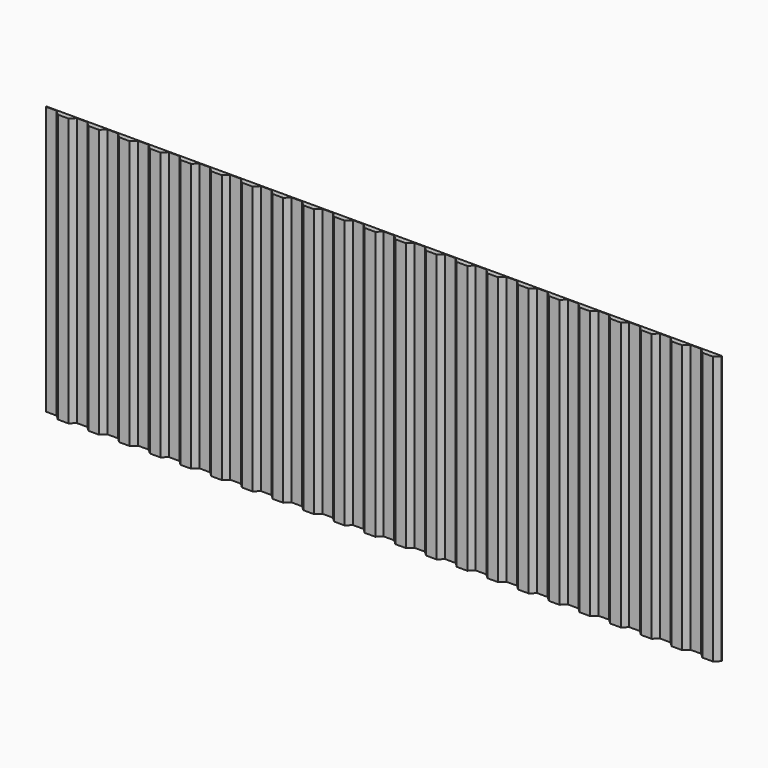
from build123d import *

# Parameters (mm, degrees)
F1_DEPTH = 16


with BuildPart() as f1:
    # F0 (on Top) → F1 (new body)
    with BuildSketch(Plane.XY):
        Polygon((0.414211, 0.041402), (-1.415181, 0.041402), (-1.411876, 0), (-0.781621, 0), (-0.497795, -0.270558), (0.132981, -0.270558), (0.417517, 0), align=None)
        Polygon((0.420945, 0.041402), (0.414211, 0.041402), (0.417517, 0), align=None)
        Polygon((2.243604, 0.041402), (0.420945, 0.041402), (0.417517, 0), (1.047772, 0), (1.331597, -0.270558), (1.962374, -0.270558), (2.246909, 0), align=None)
        Polygon((2.250337, 0.041402), (2.243604, 0.041402), (2.246909, 0), align=None)
        Polygon((4.072996, 0.041402), (2.250337, 0.041402), (2.246909, 0), (2.877164, 0), (3.160989, -0.270558), (3.791766, -0.270558), (4.076301, 0), align=None)
        Polygon((4.079729, 0.041402), (4.072996, 0.041402), (4.076301, 0), align=None)
        Polygon((5.902388, 0.041402), (4.079729, 0.041402), (4.076301, 0), (4.706556, 0), (4.990381, -0.270558), (5.621158, -0.270558), (5.905694, 0), align=None)
        Polygon((5.909122, 0.041402), (5.902388, 0.041402), (5.905694, 0), align=None)
        Polygon((7.73178, 0.041402), (5.909122, 0.041402), (5.905694, 0), (6.535948, 0), (6.819774, -0.270558), (7.450551, -0.270558), (7.735086, 0), align=None)
        Polygon((7.738514, 0.041402), (7.73178, 0.041402), (7.735086, 0), align=None)
        Polygon((9.561173, 0.041402), (7.738514, 0.041402), (7.735086, 0), (8.365341, 0), (8.649166, -0.270558), (9.279943, -0.270558), (9.564478, 0), align=None)
        Polygon((9.567906, 0.041402), (9.561173, 0.041402), (9.564478, 0), align=None)
        Polygon((11.390565, 0.041402), (9.567906, 0.041402), (9.564478, 0), (10.194733, 0), (10.478558, -0.270558), (11.109335, -0.270558), (11.39387, 0), align=None)
        Polygon((11.397298, 0.041402), (11.390565, 0.041402), (11.39387, 0), align=None)
        Polygon((13.219957, 0.041402), (11.397298, 0.041402), (11.39387, 0), (12.024125, 0), (12.307951, -0.270558), (12.938727, -0.270558), (13.223263, 0), align=None)
        Polygon((13.226691, 0.041402), (13.219957, 0.041402), (13.223263, 0), align=None)
        Polygon((15.04935, 0.041402), (13.226691, 0.041402), (13.223263, 0), (13.853518, 0), (14.137343, -0.270558), (14.76812, -0.270558), (15.052655, 0), align=None)
        Polygon((15.056083, 0.041402), (15.04935, 0.041402), (15.052655, 0), align=None)
        Polygon((16.878742, 0.041402), (15.056083, 0.041402), (15.052655, 0), (15.68291, 0), (15.966735, -0.270558), (16.597512, -0.270558), (16.882047, 0), align=None)
        Polygon((16.885475, 0.041402), (16.878742, 0.041402), (16.882047, 0), align=None)
        Polygon((18.708134, 0.041402), (16.885475, 0.041402), (16.882047, 0), (17.512302, 0), (17.796127, -0.270558), (18.426904, -0.270558), (18.711439, 0), align=None)
        Polygon((18.714868, 0.041402), (18.708134, 0.041402), (18.711439, 0), align=None)
        Polygon((20.537526, 0.041402), (18.714868, 0.041402), (18.711439, 0), (19.341694, 0), (19.62552, -0.270558), (20.256296, -0.270558), (20.540832, 0), align=None)
        Polygon((20.54426, 0.041402), (20.537526, 0.041402), (20.540832, 0), align=None)
        Polygon((22.366919, 0.041402), (20.54426, 0.041402), (20.540832, 0), (21.171087, 0), (21.454912, -0.270558), (22.085689, -0.270558), (22.370224, 0), align=None)
        Polygon((22.373652, 0.041402), (22.366919, 0.041402), (22.370224, 0), align=None)
        Polygon((24.196311, 0.041402), (22.373652, 0.041402), (22.370224, 0), (23.000479, 0), (23.284304, -0.270558), (23.915081, -0.270558), (24.199616, 0), align=None)
        Polygon((24.203044, 0.041402), (24.196311, 0.041402), (24.199616, 0), align=None)
        Polygon((26.025703, 0.041402), (24.203044, 0.041402), (24.199616, 0), (24.829871, 0), (25.113696, -0.270558), (25.744473, -0.270558), (26.029009, 0), align=None)
        Polygon((26.032437, 0.041402), (26.025703, 0.041402), (26.029009, 0), align=None)
        Polygon((27.855095, 0.041402), (26.032437, 0.041402), (26.029009, 0), (26.659264, 0), (26.943089, -0.270558), (27.573866, -0.270558), (27.858401, 0), align=None)
        Polygon((27.861829, 0.041402), (27.855095, 0.041402), (27.858401, 0), align=None)
        Polygon((29.684488, 0.041402), (27.861829, 0.041402), (27.858401, 0), (28.488656, 0), (28.772481, -0.270558), (29.403258, -0.270558), (29.687793, 0), align=None)
        Polygon((29.691221, 0.041402), (29.684488, 0.041402), (29.687793, 0), align=None)
        Polygon((31.51388, 0.041402), (29.691221, 0.041402), (29.687793, 0), (30.318048, 0), (30.601873, -0.270558), (31.23265, -0.270558), (31.517185, 0), align=None)
        Polygon((31.520614, 0.041402), (31.51388, 0.041402), (31.517185, 0), align=None)
        Polygon((33.3467, 0.041402), (31.520614, 0.041402), (31.517185, 0), (32.14744, 0), (32.431266, -0.270558), (33.062042, -0.270558), (33.346578, 0), (33.348323, 0.021078), align=None)
        Polygon((33.350006, 0.041402), (33.3467, 0.041402), (33.348323, 0.021078), align=None)
        Polygon((35.176093, 0.041402), (33.350006, 0.041402), (33.348323, 0.021078), (33.350006, 0), (33.980261, 0), (34.264086, -0.270558), (34.894863, -0.270558), (35.179398, 0), align=None)
        Polygon((35.182826, 0.041402), (35.176093, 0.041402), (35.179398, 0), align=None)
        Polygon((37.005485, 0.041402), (35.182826, 0.041402), (35.179398, 0), (35.809653, 0), (36.093478, -0.270558), (36.724255, -0.270558), (37.00879, 0), align=None)
        Polygon((37.012218, 0.041402), (37.005485, 0.041402), (37.00879, 0), align=None)
        Polygon((38.841611, 0.041402), (37.012218, 0.041402), (37.00879, 0), (37.639045, 0), (37.922871, -0.270558), (38.553647, -0.270558), (38.838183, 0), align=None)
    extrude(amount=F1_DEPTH)


solid = f1.part
